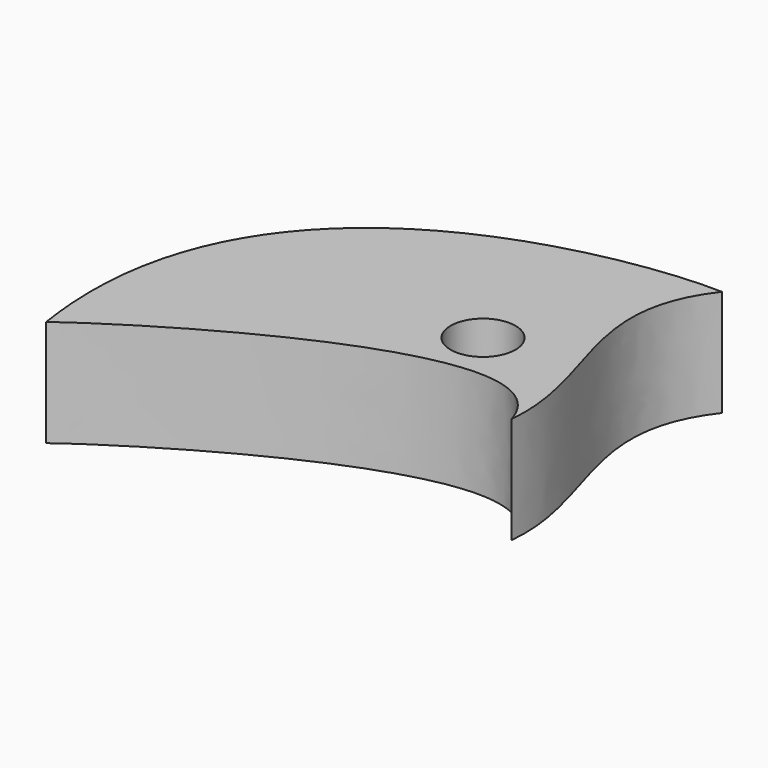
from build123d import *

# Parameters (mm, degrees)
F0_R     = 3.093097
F1_DEPTH = 10.16


with BuildPart() as f1:
    # F0 (on Top) → F1 (new body)
    with BuildSketch(Plane.XY):
        with BuildLine():
            add(Edge.make_bspline(
                [(9.835374, -3.228585), (6.090744, 8.982159), (-21.912562, -8.764123), (-26.959671, -12.671562)],
                knots=[0, 0, 0, 0, 37.987433, 37.987433, 37.987433, 37.987433], degree=3))
            add(Edge.make_bspline(
                [(9.835374, -3.228585), (10.757963, 5.8345), (2.573675, 13.898635), (9.248882, 22.527561)],
                knots=[0, 0, 0, 0, 25.762823, 25.762823, 25.762823, 25.762823], degree=3))
            add(Edge.make_bspline(
                [(9.248882, 22.527561), (0.945576, 22.853183), (-31.843968, 18.587945), (-26.959671, -12.671562)],
                knots=[0, 0, 0, 0, 50.497896, 50.497896, 50.497896, 50.497896], degree=3))
        make_face()
        with Locations((0, 5.647255)):
            Circle(F0_R, mode=Mode.SUBTRACT)
    extrude(amount=F1_DEPTH)


solid = f1.part
